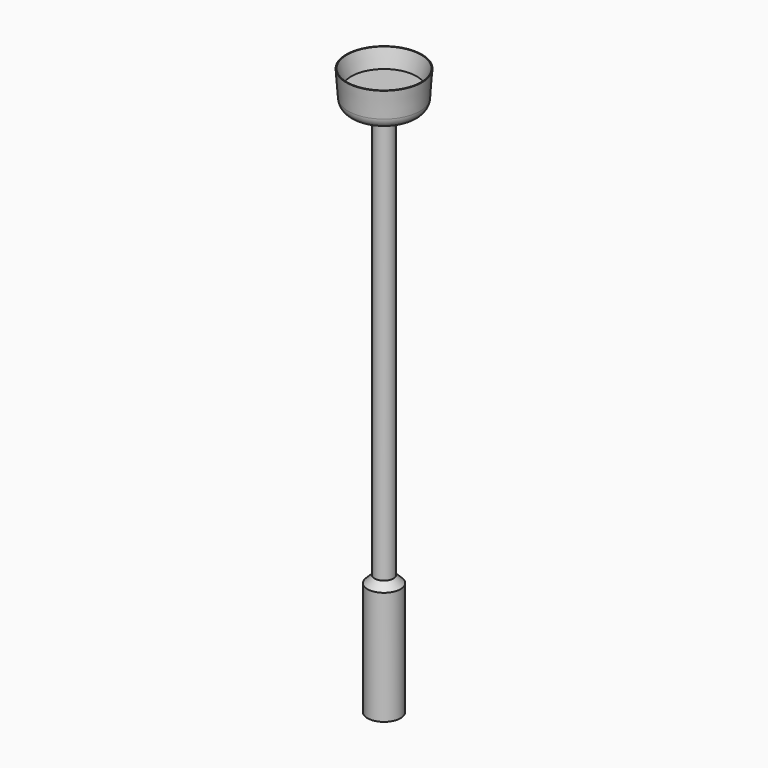
from build123d import *

# Parameters (mm, degrees)
F2_R     = 3.81
F3_R     = 3.175
F4_DEPTH = 139.7
F5_R     = 5.5372
F6_DEPTH = 38.1


with BuildPart() as f1:
    # F0 (on Front) → F1 (revolve)
    with BuildSketch(Plane.XZ):
        Polygon((0, 6.35), (0, 0), (11.811, 0), (12.7, 12.192), (12.446, 12.192), (10.922, 6.35), align=None)
    revolve(axis=Axis((0, 0, 3.175), (0, 0, -1)))

    # F2
    f2_edges = [f1.edges().sort_by_distance(p)[0] for p in [
        (-11.811, 0, 0),
    ]]
    fillet(f2_edges, radius=F2_R)

    # F3 (on face) → F4 (join)
    with BuildSketch(Plane(origin=(0, 0, 0), x_dir=(1, 0, 0), z_dir=(0, 0, -1))):
        Circle(F3_R)
    extrude(amount=F4_DEPTH)

    # F5 (on face) → F6 (join)
    with BuildSketch(Plane(origin=(0, 0, -139.7), x_dir=(1, 0, 0), z_dir=(0, 0, -1))):
        Circle(F5_R)
    extrude(amount=F6_DEPTH)

    # F7 (on Front) → F8 (revolve)
    with BuildSketch(Plane.XZ):
        Polygon((-5.5372, -139.7), (0, -139.7), (0, -134.1628), align=None)
    revolve(axis=Axis((0, 0, -136.9314), (0, 0, -1)))


solid = f1.part
